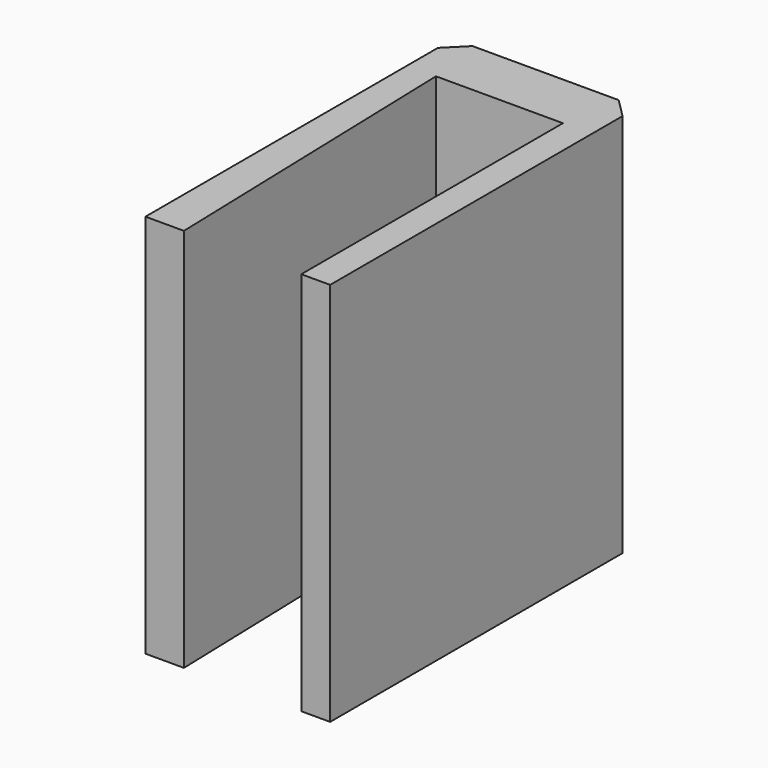
from build123d import *

# Parameters (mm, degrees)
F1_DEPTH = 10
F2_SIZE  = 1


with BuildPart() as f1:
    # F0 (on Top) → F1 (new body, symmetric)
    with BuildSketch(Plane.XY):
        Polygon((-33.935995, -3.126303), (-33.935995, -23.126303), (-31.935995, -23.126303), (-32.435995, -6.126303), (-25.835995, -6.126303), (-25.835995, -23.126303), (-24.335995, -23.126303), (-24.335995, -3.126303), align=None)
    extrude(amount=F1_DEPTH, both=True)

    # F2
    f2_edges = [f1.edges().sort_by_distance(p)[0] for p in [
        (-33.935995, -3.126303, 0),
        (-24.335995, -3.126303, 0),
    ]]
    chamfer(f2_edges, length=F2_SIZE)


solid = f1.part
